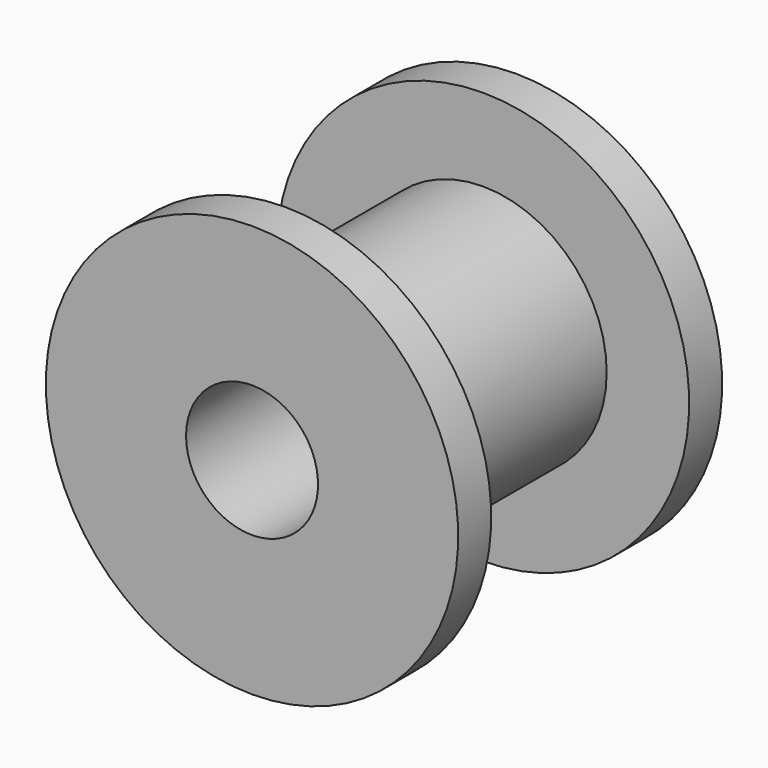
from build123d import *

# Parameters (mm, degrees)
F3_D = 8


with BuildPart() as f1:
    # F0 (on Right) → F1 (revolve)
    with BuildSketch(Plane.YZ):
        Polygon((0, 12.5), (0, 0), (20, 0), (20, 12.5), (17.5, 12.5), (17.5, 7.5), (2.5, 7.5), (2.5, 12.5), align=None)
    revolve(axis=Axis((0, 10, 0), (0, 1, 0)))

    # F3 (through all)
    with Locations(Plane.XZ):
        with Locations((0, 0)):
            Hole(F3_D / 2)


solid = f1.part
